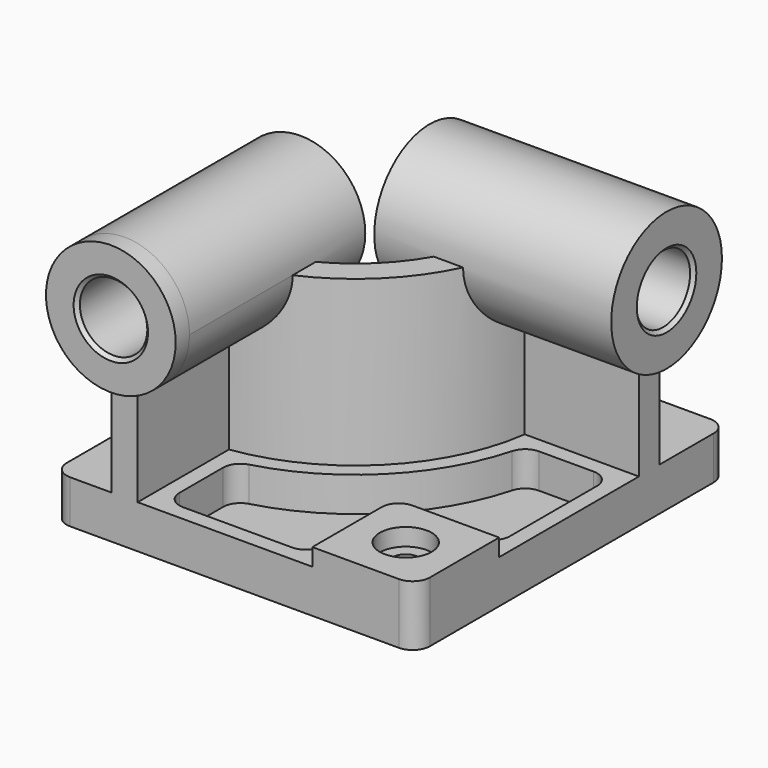
from build123d import *

# Parameters (mm, degrees)
F0_W            = 210
F0_H            = 225
F1_DEPTH        = 25
F3_DEPTH        = 95
F4_R            = 37.5
F5_DEPTH        = 10
F5_DEPTH_BACK   = 127
F6_R            = 40
F7_DEPTH        = 10
F7_DEPTH_BACK   = 127
F8_W            = 60
F8_H            = 60
F9_DEPTH        = 10
F10_R           = 10
F12_DEPTH       = 20
F14_D           = 15
F14_CBORE_D     = 30
F14_CBORE_DEPTH = 10
F15_R           = 10
F16_R           = 19.5
F17_DEPTH       = 235.001
F18_R           = 19.5
F19_DEPTH       = 220.001
F20_SIZE        = 2
F21_R           = 10


with BuildPart() as f1:
    # F0 (on Top) → F1 (new body)
    with BuildSketch(Plane.XY):
        Rectangle(F0_W, F0_H)
    extrude(amount=F1_DEPTH)

    # F2 (on face) → F3 (join)
    with BuildSketch(Plane.XY.offset(25)):
        with BuildLine():
            Line((-71, -32.5), (-71, -112.5))
            Line((-71, -112.5), (-56, -112.5))
            Line((-56, -112.5), (-56, -46.481817))
            ThreePointArc((-56, -46.481817), (7.488853, -14.988853), (38.981817, 48.5))
            Line((38.981817, 48.5), (105, 48.5))
            Line((105, 48.5), (105, 63.5))
            Line((105, 63.5), (25, 63.5))
            ThreePointArc((25, 63.5), (-3.117749, -4.382251), (-71, -32.5))
        make_face()
    extrude(amount=F3_DEPTH)

    # F4 (on face) → F5 (join, two sides)
    with BuildSketch(Plane.XZ.offset(112.5)) as f5_sk:
        with Locations((-63.5, 120)):
            Circle(F4_R)
    extrude(amount=F5_DEPTH)
    extrude(f5_sk.sketch, amount=-F5_DEPTH_BACK)

    # F6 (on face) → F7 (join, two sides)
    with BuildSketch(Plane.YZ.offset(105)) as f7_sk:
        with Locations((56, 120)):
            Circle(F6_R)
    extrude(amount=F7_DEPTH)
    extrude(f7_sk.sketch, amount=-F7_DEPTH_BACK)

    # F8 (on face) → F9 (join)
    with BuildSketch(Plane.XY.offset(25)):
        with Locations((75, -82.5)):
            Rectangle(F8_W, F8_H)
    extrude(amount=F9_DEPTH)

    # F10
    f10_edges = [f1.edges().sort_by_distance(p)[0] for p in [
        (45, -52.5, 30),
    ]]
    fillet(f10_edges, radius=F10_R)

    # F11 (on face) → F12 (cut)
    with BuildSketch(Plane.XY.offset(25)):
        with BuildLine():
            ThreePointArc((46.575508, 39.5), (13.852814, -21.352814), (-47, -54.075508))
            Line((-47, -54.075508), (-47, -103.5))
            Line((-47, -103.5), (36, -103.5))
            Line((36, -103.5), (36, -62.5))
            ThreePointArc((36, -62.5), (41.564971, -49.064971), (55, -43.5))
            Line((55, -43.5), (96, -43.5))
            Line((96, -43.5), (96, 39.5))
            Line((96, 39.5), (46.575508, 39.5))
        make_face()
    extrude(amount=-F12_DEPTH, mode=Mode.SUBTRACT)

    # F14 (through all)
    with Locations(Plane.XY.offset(35)):
        with Locations((75, -82.5)):
            CounterBoreHole(F14_D / 2, F14_CBORE_D / 2, F14_CBORE_DEPTH)

    # F15
    f15_edges = [f1.edges().sort_by_distance(p)[0] for p in [
        (-47, -54.075508, 15),
        (46.575508, 39.5, 15),
        (96, 39.5, 15),
        (36, -103.5, 15),
        (96, -43.5, 15),
        (-47, -103.5, 15),
    ]]
    fillet(f15_edges, radius=F15_R)

    # F16 (on face) → F17 (cut, through all)
    with BuildSketch(Plane.XZ.offset(122.5)):
        with Locations((-63.5, 120)):
            Circle(F16_R)
    extrude(amount=-F17_DEPTH, mode=Mode.SUBTRACT)

    # F18 (on face) → F19 (cut, through all)
    with BuildSketch(Plane.YZ.offset(115)):
        with Locations((56, 120)):
            Circle(F18_R)
    extrude(amount=-F19_DEPTH, mode=Mode.SUBTRACT)

    # F20
    f20_edges = [f1.edges().sort_by_distance(p)[0] for p in [
        (-83, -122.5, 120),
        (115, 36.5, 120),
        (-83, 14.5, 120),
        (-22, 36.5, 120),
    ]]
    chamfer(f20_edges, length=F20_SIZE)

    # F21
    f21_edges = [f1.edges().sort_by_distance(p)[0] for p in [
        (105, -112.5, 17.5),
        (105, 112.5, 12.5),
        (-105, 112.5, 12.5),
        (-105, -112.5, 12.5),
    ]]
    fillet(f21_edges, radius=F21_R)


solid = f1.part
